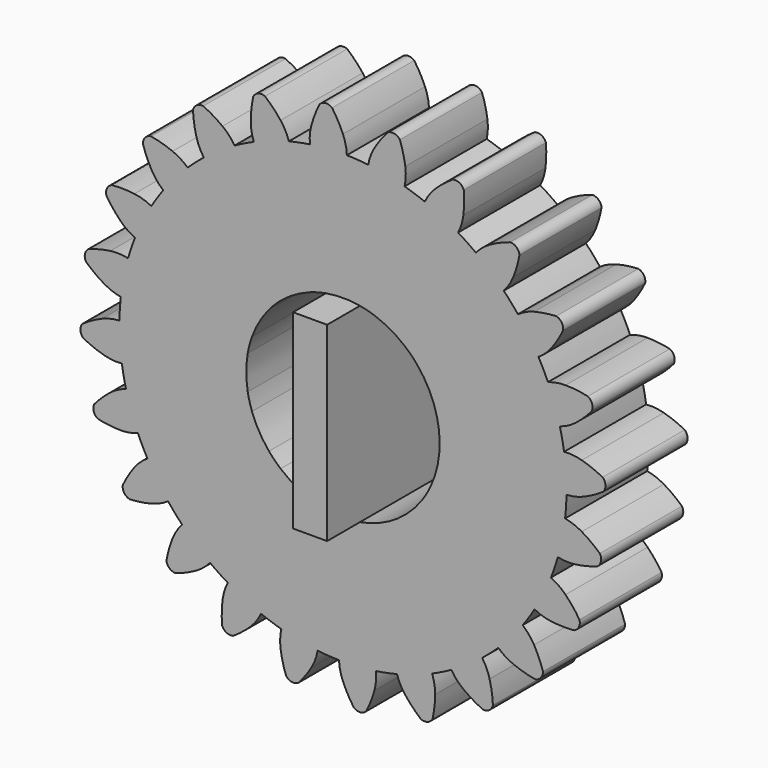
from build123d import *

# Parameters (mm, degrees)
F1_DEPTH = 25
F2_COUNT = 24
F0_W     = 8.281516
F0_H     = 46.38232
F3_DEPTH = 35


with BuildPart() as f1:
    # F0 (on Front) → F1 (new body)
    with BuildSketch(Plane.XZ):
        with BuildLine():
            ThreePointArc((-8.054693, 53.851655), (-35.540788, -41.252046), (54.450701, 0))
            ThreePointArc((54.450701, 0), (38.839243, 38.162705), (0.956733, 54.442295))
            ThreePointArc((0.956733, 54.442295), (-3.561246, 54.334118), (-8.054693, 53.851655))
        make_face()
        with BuildLine():
            ThreePointArc((4.140758, 23.19116), (18.062716, 15.123295), (23.557924, 0))
            ThreePointArc((23.557924, 0), (18.062716, -15.123295), (4.140758, -23.19116))
            ThreePointArc((4.140758, -23.19116), (0, -23.557924), (-4.140758, -23.19116))
            ThreePointArc((-4.140758, -23.19116), (-23.557924, 0), (-4.140758, 23.19116))
            ThreePointArc((-4.140758, 23.19116), (0, 23.557924), (4.140758, 23.19116))
        make_face(mode=Mode.SUBTRACT)
        with BuildLine():
            ThreePointArc((-8.054693, 53.851655), (-3.561246, 54.334118), (0.956733, 54.442295))
            ThreePointArc((0.956733, 54.442295), (0.669741, 56.601415), (0, 58.674))
            ThreePointArc((0, 58.674), (-1.198812, 61.127856), (-2.644428, 63.444913))
            ThreePointArc((-2.644428, 63.444913), (-4.19103, 63.942755), (-5.659418, 63.2473))
            ThreePointArc((-5.659418, 63.2473), (-6.790231, 60.761375), (-7.658494, 58.172036))
            ThreePointArc((-7.658494, 58.172036), (-8.051979, 56.029763), (-8.054693, 53.851655))
        make_face()
    extrude(amount=F1_DEPTH)



with BuildPart() as f2_1:
    # F2: instance of F1
    add(f1.part.rotate(Axis((0, 0, 0), (0, 1, 0)), 1 * 360 / F2_COUNT))


with BuildPart() as f2_2:
    # F2: instance of F1
    add(f1.part.rotate(Axis((0, 0, 0), (0, 1, 0)), 2 * 360 / F2_COUNT))


with BuildPart() as f2_3:
    # F2: instance of F1
    add(f1.part.rotate(Axis((0, 0, 0), (0, 1, 0)), 3 * 360 / F2_COUNT))


with BuildPart() as f2_4:
    # F2: instance of F1
    add(f1.part.rotate(Axis((0, 0, 0), (0, 1, 0)), 4 * 360 / F2_COUNT))


with BuildPart() as f2_5:
    # F2: instance of F1
    add(f1.part.rotate(Axis((0, 0, 0), (0, 1, 0)), 5 * 360 / F2_COUNT))


with BuildPart() as f2_6:
    # F2: instance of F1
    add(f1.part.rotate(Axis((0, 0, 0), (0, 1, 0)), 6 * 360 / F2_COUNT))


with BuildPart() as f2_7:
    # F2: instance of F1
    add(f1.part.rotate(Axis((0, 0, 0), (0, 1, 0)), 7 * 360 / F2_COUNT))


with BuildPart() as f2_8:
    # F2: instance of F1
    add(f1.part.rotate(Axis((0, 0, 0), (0, 1, 0)), 8 * 360 / F2_COUNT))


with BuildPart() as f2_9:
    # F2: instance of F1
    add(f1.part.rotate(Axis((0, 0, 0), (0, 1, 0)), 9 * 360 / F2_COUNT))


with BuildPart() as f2_10:
    # F2: instance of F1
    add(f1.part.rotate(Axis((0, 0, 0), (0, 1, 0)), 10 * 360 / F2_COUNT))


with BuildPart() as f2_11:
    # F2: instance of F1
    add(f1.part.rotate(Axis((0, 0, 0), (0, 1, 0)), 11 * 360 / F2_COUNT))


with BuildPart() as f2_12:
    # F2: instance of F1
    add(f1.part.rotate(Axis((0, 0, 0), (0, 1, 0)), 12 * 360 / F2_COUNT))


with BuildPart() as f2_13:
    # F2: instance of F1
    add(f1.part.rotate(Axis((0, 0, 0), (0, 1, 0)), 13 * 360 / F2_COUNT))


with BuildPart() as f2_14:
    # F2: instance of F1
    add(f1.part.rotate(Axis((0, 0, 0), (0, 1, 0)), 14 * 360 / F2_COUNT))


with BuildPart() as f2_15:
    # F2: instance of F1
    add(f1.part.rotate(Axis((0, 0, 0), (0, 1, 0)), 15 * 360 / F2_COUNT))


with BuildPart() as f2_16:
    # F2: instance of F1
    add(f1.part.rotate(Axis((0, 0, 0), (0, 1, 0)), 16 * 360 / F2_COUNT))


with BuildPart() as f2_17:
    # F2: instance of F1
    add(f1.part.rotate(Axis((0, 0, 0), (0, 1, 0)), 17 * 360 / F2_COUNT))


with BuildPart() as f2_18:
    # F2: instance of F1
    add(f1.part.rotate(Axis((0, 0, 0), (0, 1, 0)), 18 * 360 / F2_COUNT))


with BuildPart() as f2_19:
    # F2: instance of F1
    add(f1.part.rotate(Axis((0, 0, 0), (0, 1, 0)), 19 * 360 / F2_COUNT))


with BuildPart() as f2_20:
    # F2: instance of F1
    add(f1.part.rotate(Axis((0, 0, 0), (0, 1, 0)), 20 * 360 / F2_COUNT))


with BuildPart() as f2_21:
    # F2: instance of F1
    add(f1.part.rotate(Axis((0, 0, 0), (0, 1, 0)), 21 * 360 / F2_COUNT))


with BuildPart() as f2_22:
    # F2: instance of F1
    add(f1.part.rotate(Axis((0, 0, 0), (0, 1, 0)), 22 * 360 / F2_COUNT))


with BuildPart() as f2_23:
    # F2: instance of F1
    add(f1.part.rotate(Axis((0, 0, 0), (0, 1, 0)), 23 * 360 / F2_COUNT))


with BuildPart() as f1_1:
    add(f1.part)

    add(f2_1.part)  # F3 merges F2_1

    add(f2_2.part)  # F3 merges F2_2

    add(f2_3.part)  # F3 merges F2_3

    add(f2_4.part)  # F3 merges F2_4

    add(f2_5.part)  # F3 merges F2_5

    add(f2_6.part)  # F3 merges F2_6

    add(f2_7.part)  # F3 merges F2_7

    add(f2_8.part)  # F3 merges F2_8

    add(f2_9.part)  # F3 merges F2_9

    add(f2_10.part)  # F3 merges F2_10

    add(f2_11.part)  # F3 merges F2_11

    add(f2_12.part)  # F3 merges F2_12

    add(f2_13.part)  # F3 merges F2_13

    add(f2_14.part)  # F3 merges F2_14

    add(f2_15.part)  # F3 merges F2_15

    add(f2_16.part)  # F3 merges F2_16

    add(f2_17.part)  # F3 merges F2_17

    add(f2_18.part)  # F3 merges F2_18

    add(f2_19.part)  # F3 merges F2_19

    add(f2_20.part)  # F3 merges F2_20

    add(f2_21.part)  # F3 merges F2_21

    add(f2_22.part)  # F3 merges F2_22

    add(f2_23.part)  # F3 merges F2_23
    # F0 (on Front) → F3 (join)
    with BuildSketch(Plane.XZ):
        Rectangle(F0_W, F0_H)
    extrude(amount=F3_DEPTH)


solid = f1_1.part
